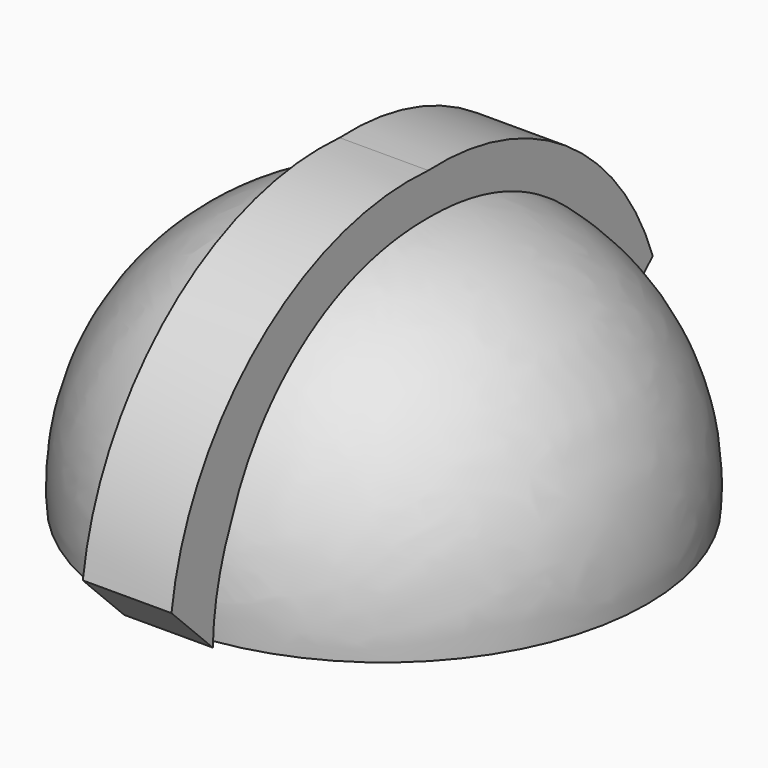
from build123d import *

# Parameters (mm, degrees)
F3_DEPTH = 12.7


with BuildPart() as f1:
    # F0 (on Front) → F1 (revolve)
    with BuildSketch(Plane.XZ):
        with BuildLine():
            Line((0, 67.557119), (0, 77.535346))
            ThreePointArc((0, 77.535346), (-55.229406, 55.815068), (-75.397104, 0))
            Line((-75.397104, 0), (-63.302755, 0))
            ThreePointArc((-63.302755, 0), (-45.337728, 46.603021), (0, 67.557119))
        make_face()
    revolve(axis=Axis((0, 0, 72.546232), (0, 0, -1)))

    # F2 (on Right) → F3 (join, symmetric)
    with BuildSketch(Plane.YZ):
        with BuildLine():
            ThreePointArc((80.394238, 34.73983), (49.215888, 75.227343), (0, 88.979602))
            ThreePointArc((0, 88.979602), (-60.68504, 70.060885), (-91.962814, 14.722899))
            Line((-91.962814, 14.722899), (-77.158928, 0))
            ThreePointArc((-77.158928, 0), (-14.010715, 72.501765), (68.81699, 23.677856))
            Line((68.81699, 23.677856), (80.394238, 34.73983))
        make_face()
    extrude(amount=F3_DEPTH, both=True)


solid = f1.part
